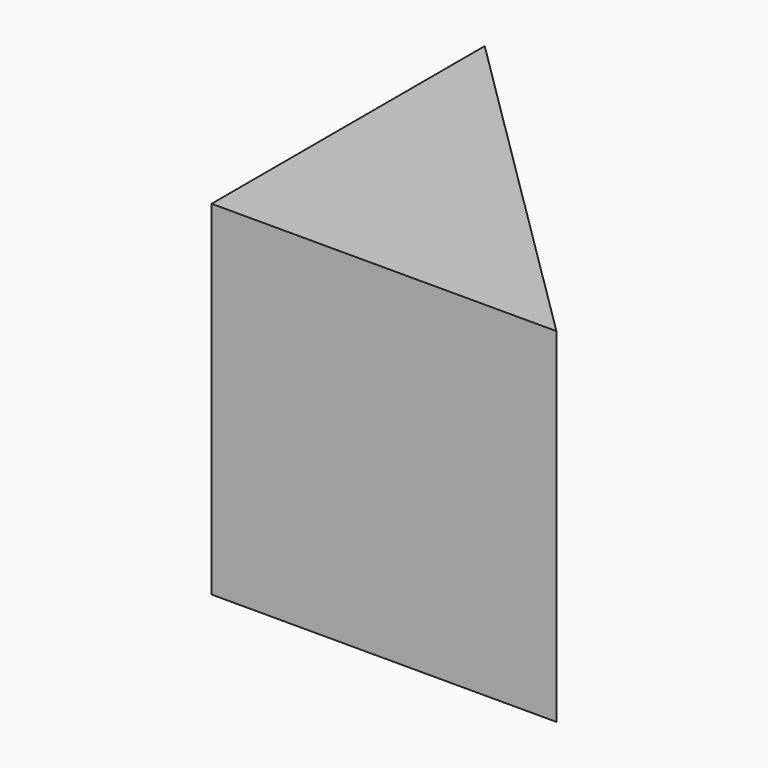
from build123d import *

# Parameters (mm, degrees)
F0_W     = 76.381862
F0_H     = 75.618044
F1_DEPTH = 76.2
F3_DEPTH = 76.2


with BuildPart() as f1:
    # F0 (on Top) → F1 (new body)
    with BuildSketch(Plane.XY):
        with Locations((-38.190931, 37.809022)):
            Rectangle(F0_W, F0_H)
    extrude(amount=F1_DEPTH)

    # F2 (on face) → F3 (cut)
    with BuildSketch(Plane.XY.offset(76.2)):
        Polygon((0, 75.618044), (-76.381862, 75.618044), (0, 0), align=None)
    extrude(amount=-F3_DEPTH, mode=Mode.SUBTRACT)


solid = f1.part
